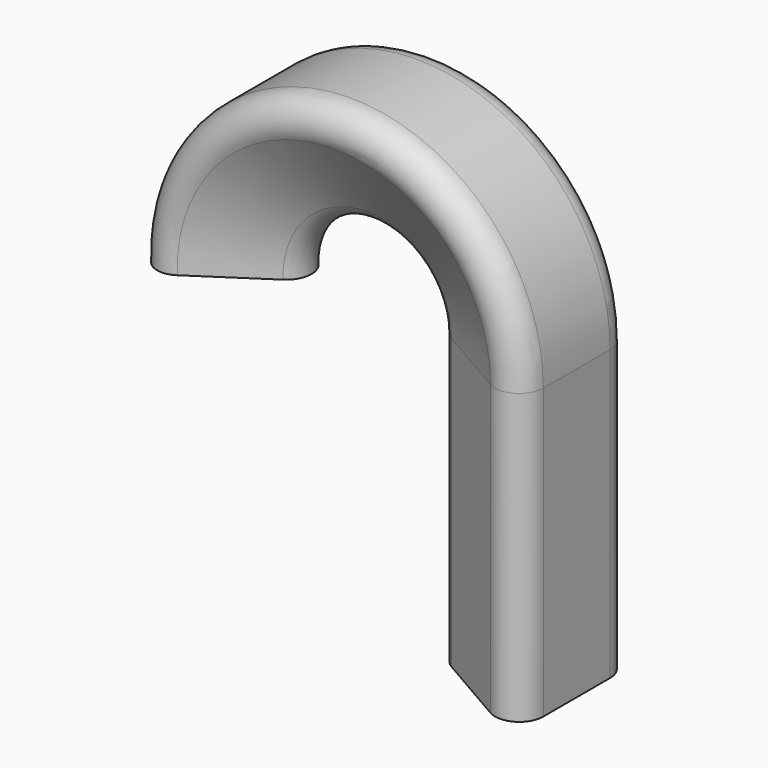
from build123d import *


with BuildPart() as f2:
    # F2: sweep along a path in F0
    with BuildLine(Plane.XZ) as f2_path:
        ThreePointArc((-76.1744, 74.803547), (-38.798344, 114.293599), (0, 76.2))
        Line((0, 76.2), (0, 0))
    # F1 (on Top) → F2 (sweep)
    with BuildSketch(Plane.XY):
        with BuildLine():
            Line((12.7, -10.998523), (12.7, 10.998523))
            ThreePointArc((12.7, 10.998523), (9.525, 16.497784), (3.175, 16.497784))
            Line((3.175, 16.497784), (-15.875, 5.499261))
            ThreePointArc((-15.875, 5.499261), (-19.05, 0), (-15.875, -5.499261))
            Line((-15.875, -5.499261), (3.175, -16.497784))
            ThreePointArc((3.175, -16.497784), (9.525, -16.497784), (12.7, -10.998523))
        make_face()
    sweep(path=f2_path.line)


solid = f2.part
